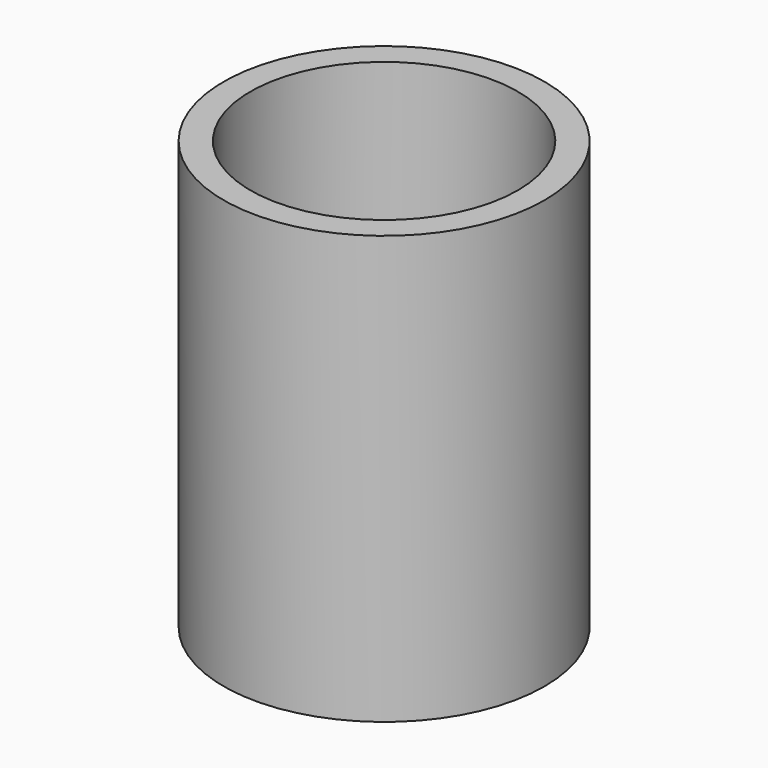
from build123d import *

# Parameters (mm, degrees)
F0_R     = 38.1
F0_R_2   = 31.75
F1_DEPTH = 101.6
F2_R     = 34.629578
F3_DEPTH = 12.7


with BuildPart() as f1:
    # F0 (on Top) → F1 (new body)
    with BuildSketch(Plane.XY):
        Circle(F0_R)
        Circle(F0_R_2, mode=Mode.SUBTRACT)
    extrude(amount=F1_DEPTH)

    # F2 (on Top) → F3 (cut)
    with BuildSketch(Plane.XY):
        Circle(F2_R)
    extrude(amount=F3_DEPTH, mode=Mode.SUBTRACT)


solid = f1.part
